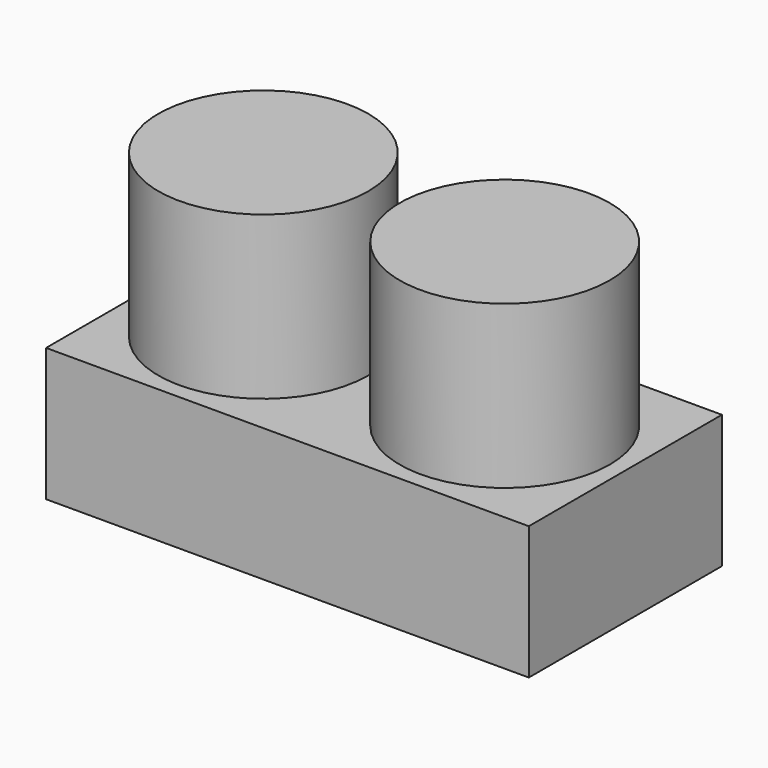
from build123d import *

# Parameters (mm, degrees)
F1_DEPTH = 17.526
F2_R     = 13.808948
F3_DEPTH = 21.336


with BuildPart() as f1:
    # F0 (on Top) → F1 (new body)
    with BuildSketch(Plane.XY):
        Polygon((-50.618237, 43.793876), (-58.365237, 43.793876), (-58.365237, 36.300876), (-57.095237, 36.300876), (-57.095237, 36.173876), (-57.095237, 36.046876), (-58.365237, 36.046876), (-58.365237, 20.044876), (-57.095237, 20.044876), (-57.095237, 19.917876), (-57.095237, 19.790876), (-58.365237, 19.790876), (-58.365237, 12.043876), (-50.618237, 12.043876), (-50.618237, 18.393876), (-50.491237, 18.393876), (-50.364237, 18.393876), (-50.364237, 12.043876), (-33.346237, 12.043876), (-33.346237, 18.393876), (-33.219237, 18.393876), (-33.092237, 18.393876), (-33.092237, 12.043876), (-26.615237, 12.043876), (-26.615237, 19.790876), (-27.885237, 19.790876), (-27.885237, 19.917876), (-27.885237, 20.044876), (-26.615237, 20.044876), (-26.615237, 36.046876), (-27.885237, 36.046876), (-27.885237, 36.173876), (-27.885237, 36.300876), (-26.615237, 36.300876), (-26.615237, 43.793876), (-33.092237, 43.793876), (-33.092237, 37.443876), (-33.219237, 37.443876), (-33.346237, 37.443876), (-33.346237, 43.793876), (-50.364237, 43.793876), (-50.364237, 37.443876), (-50.491237, 37.443876), (-50.618237, 37.443876), align=None)
        Polygon((-50.364237, 43.793876), (-50.618237, 43.793876), (-50.618237, 37.443876), (-50.491237, 37.443876), (-50.364237, 37.443876), align=None)
        Polygon((-57.095237, 36.300876), (-58.365237, 36.300876), (-58.365237, 36.173876), (-58.365237, 36.046876), (-57.095237, 36.046876), (-57.095237, 36.173876), align=None)
        Polygon((-33.092237, 43.793876), (-33.346237, 43.793876), (-33.346237, 37.443876), (-33.219237, 37.443876), (-33.092237, 37.443876), align=None)
        Polygon((-57.095237, 20.044876), (-58.365237, 20.044876), (-58.365237, 19.917876), (-58.365237, 19.790876), (-57.095237, 19.790876), (-57.095237, 19.917876), align=None)
        Polygon((-20.138237, 43.793876), (-26.615237, 43.793876), (-26.615237, 36.300876), (-25.345237, 36.300876), (-25.345237, 36.173876), (-25.345237, 36.046876), (-26.615237, 36.046876), (-26.615237, 20.044876), (-25.345237, 20.044876), (-25.345237, 19.917876), (-25.345237, 19.790876), (-26.615237, 19.790876), (-26.615237, 12.043876), (-20.138237, 12.043876), (-20.138237, 18.393876), (-20.011237, 18.393876), (-19.884237, 18.393876), (-19.884237, 12.043876), (-2.866237, 12.043876), (-2.866237, 18.393876), (-2.739237, 18.393876), (-2.612237, 18.393876), (-2.612237, 12.043876), (5.134763, 12.043876), (5.134763, 19.790876), (3.864763, 19.790876), (3.864763, 19.917876), (3.864763, 20.044876), (5.134763, 20.044876), (5.134763, 36.046876), (3.864763, 36.046876), (3.864763, 36.173876), (3.864763, 36.300876), (5.134763, 36.300876), (5.134763, 43.793876), (-2.612237, 43.793876), (-2.612237, 37.443876), (-2.739237, 37.443876), (-2.866237, 37.443876), (-2.866237, 43.793876), (-19.884237, 43.793876), (-19.884237, 37.443876), (-20.011237, 37.443876), (-20.138237, 37.443876), align=None)
        Polygon((-19.884237, 43.793876), (-20.138237, 43.793876), (-20.138237, 37.443876), (-20.011237, 37.443876), (-19.884237, 37.443876), align=None)
        Polygon((-2.612237, 43.793876), (-2.866237, 43.793876), (-2.866237, 37.443876), (-2.739237, 37.443876), (-2.612237, 37.443876), align=None)
        Polygon((-50.618237, 18.393876), (-50.618237, 12.043876), (-50.491237, 12.043876), (-50.364237, 12.043876), (-50.364237, 18.393876), (-50.491237, 18.393876), align=None)
        Polygon((5.134763, 36.046876), (5.134763, 36.300876), (3.864763, 36.300876), (3.864763, 36.173876), (3.864763, 36.046876), align=None)
        Polygon((-33.219237, 12.043876), (-33.092237, 12.043876), (-33.092237, 18.393876), (-33.219237, 18.393876), (-33.346237, 18.393876), (-33.346237, 12.043876), align=None)
        Polygon((-20.138237, 18.393876), (-20.138237, 12.043876), (-19.884237, 12.043876), (-19.884237, 18.393876), (-20.011237, 18.393876), align=None)
        Polygon((5.134763, 19.790876), (5.134763, 20.044876), (3.864763, 20.044876), (3.864763, 19.917876), (3.864763, 19.790876), align=None)
        Polygon((-2.866237, 18.393876), (-2.866237, 12.043876), (-2.612237, 12.043876), (-2.612237, 18.393876), (-2.739237, 18.393876), align=None)
        Polygon((-26.615237, 36.046876), (-26.615237, 36.300876), (-27.885237, 36.300876), (-27.885237, 36.173876), (-27.885237, 36.046876), align=None)
        Polygon((-25.345237, 36.300876), (-26.615237, 36.300876), (-26.615237, 36.046876), (-25.345237, 36.046876), (-25.345237, 36.173876), align=None)
        Polygon((-25.345237, 20.044876), (-26.615237, 20.044876), (-26.615237, 19.790876), (-25.345237, 19.790876), (-25.345237, 19.917876), align=None)
        Polygon((-26.615237, 19.790876), (-26.615237, 20.044876), (-27.885237, 20.044876), (-27.885237, 19.917876), (-27.885237, 19.790876), align=None)
    extrude(amount=F1_DEPTH)

    # F2 (on face) → F3 (join)
    with BuildSketch(Plane.XY.offset(17.526)):
        with Locations((-42.490237, 27.918876)):
            Circle(F2_R)
        with Locations((-10.740237, 27.918876)):
            Circle(F2_R)
    extrude(amount=F3_DEPTH)


solid = f1.part
